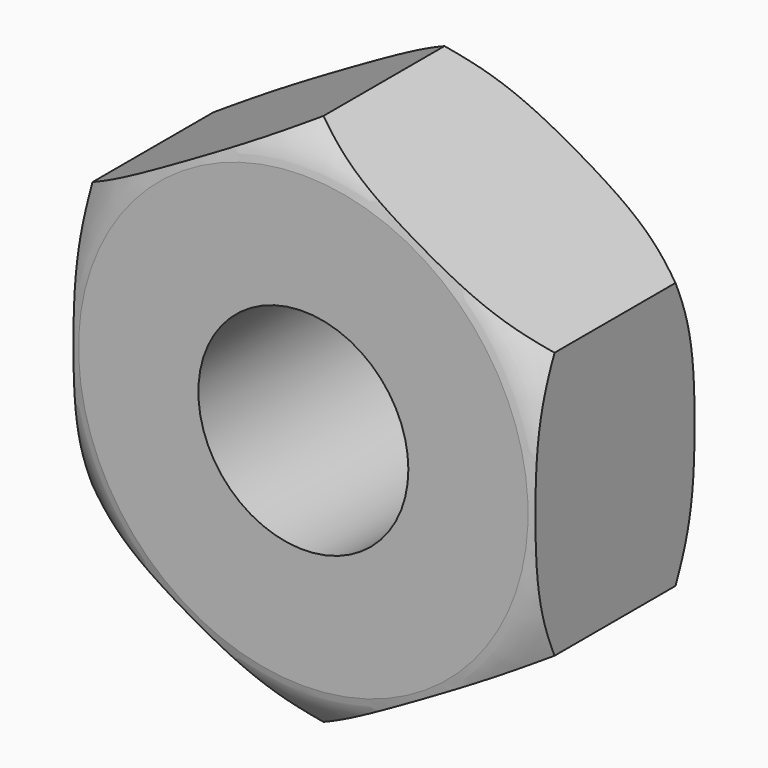
from build123d import *

# Parameters (mm, degrees)
F0_R     = 1.25
F1_DEPTH = 2.4


with BuildPart() as f1:
    # F0 (on Front) → F1 (new body)
    with BuildSketch(Plane.XZ):
        Polygon((2.75, -1.587713), (2.75, 1.587713), (0, 3.175426), (-2.75, 1.587713), (-2.75, -1.587713), (0, -3.175426), align=None)
        Circle(F0_R, mode=Mode.SUBTRACT)
    extrude(amount=F1_DEPTH)

    # F2 (on Right) → F3 (revolve, cut)
    with BuildSketch(Plane.YZ):
        with BuildLine():
            add(Edge.make_bspline(
                [(0, -2.675426), (-0.024953, -2.876037), (-0.182256, -3.038666), (-0.3, -3.175426)],
                knots=[0, 0, 0, 0, 0.583095, 0.583095, 0.583095, 0.583095], degree=3))
            Line((-0.3, -3.175426), (0, -3.175426))
            Line((0, -3.175426), (0, -2.675426))
        make_face()
        with BuildLine():
            Line((-2.4, -3.175426), (-2.1, -3.175426))
            add(Edge.make_bspline(
                [(-2.4, -2.675426), (-2.375047, -2.876037), (-2.217744, -3.038666), (-2.1, -3.175426)],
                knots=[0, 0, 0, 0, 0.583095, 0.583095, 0.583095, 0.583095], degree=3))
            Line((-2.4, -2.675426), (-2.4, -3.175426))
        make_face()
    revolve(axis=Axis((0, -1.2, 0), (0, -1, 0)), mode=Mode.SUBTRACT)


solid = f1.part
